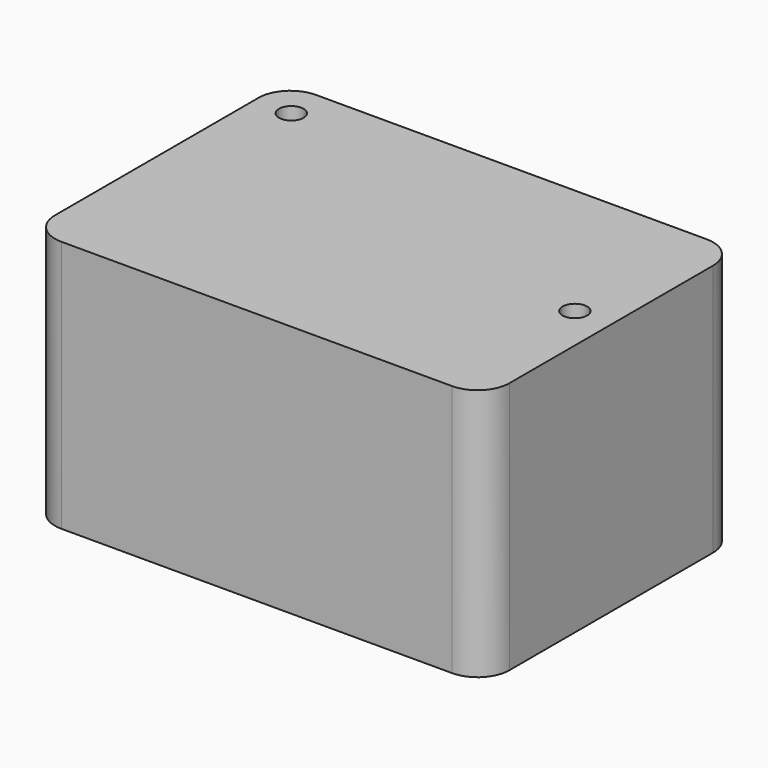
from build123d import *

# Parameters (mm, degrees)
SKETCH_R  = 1.35
PAD_DEPTH = 27.8


with BuildPart() as part:
    # Sketch → Pad (new body)
    with BuildSketch(Plane.XY):
        with BuildLine():
            Line((-21.5, 17.5), (21.5, 17.5))
            ThreePointArc((25, 14), (23.974874, 16.474874), (21.5, 17.5))
            Line((25, 14), (25, -14))
            ThreePointArc((21.5, -17.5), (23.974874, -16.474874), (25, -14))
            Line((21.5, -17.5), (-21.5, -17.5))
            ThreePointArc((-25, -14), (-23.974874, -16.474874), (-21.5, -17.5))
            Line((-25, -14), (-25, 14))
            ThreePointArc((-21.5, 17.5), (-23.974874, 16.474874), (-25, 14))
        make_face()
        with Locations((21, 0)):
            Circle(SKETCH_R, mode=Mode.SUBTRACT)
        with Locations((-21, 13.5)):
            Circle(SKETCH_R, mode=Mode.SUBTRACT)
    extrude(amount=PAD_DEPTH)


solid = part.part
